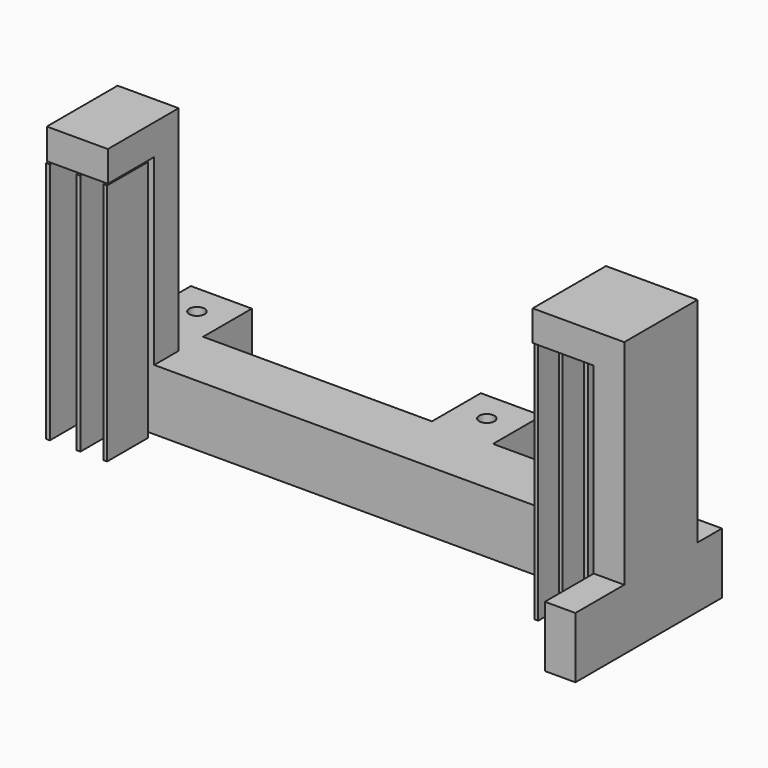
from build123d import *

# Parameters (mm, degrees)
F0_W     = 12.7
F0_H     = 12.7
F0_R     = 1.5875
F0_W_2   = 6.35
F0_H_2   = 25.4
F1_DEPTH = 12.7
F0_W_3   = 0.79375
F0_H_3   = 10.668
F2_DEPTH = 50.546
F3_W     = 12.7
F3_H     = 6.35
F4_DEPTH = 38.1
F5_W     = 12.7
F5_H     = 12.065
F5_H_2   = 6.35
F6_DEPTH = 6.35
F7_W     = 12.7
F7_H     = 12.7
F8_DEPTH = 6.35


with BuildPart() as f1:
    # F0 (on Top) → F1 (new body)
    with BuildSketch(Plane.XY):
        with Locations((-53.975, 12.7)):
            Rectangle(F0_W, F0_H)
        with Locations((-53.975, 12.7)):
            Circle(F0_R, mode=Mode.SUBTRACT)
        Polygon((53.975, -6.35), (60.325, -6.35), (60.325, 6.35), (12.7, 6.35), (0, 6.35), (-47.625, 6.35), (-60.325, 6.35), (-60.325, -6.35), align=None)
        with Locations((6.35, 12.7)):
            Rectangle(F0_W, F0_H)
        with Locations((6.3381763175, 12.7)):
            Circle(F0_R, mode=Mode.SUBTRACT)
        with Locations((57.15, -19.05)):
            Rectangle(F0_W_2, F0_H_2)
    extrude(amount=F1_DEPTH)

    # F3 (on face) → F4 (join)
    with BuildSketch(Plane.XY.offset(12.7)):
        with Locations((-53.975, -3.175)):
            Rectangle(F3_W, F3_H)
        with Locations((47.625, -3.175)):
            Rectangle(F3_W, F3_H)
        Polygon((53.975, 0), (53.975, -6.35), (53.975, -19.05), (60.325, -19.05), (60.325, 0), align=None)
    extrude(amount=F4_DEPTH)

    # F5 (on face) → F6 (join)
    with BuildSketch(Plane.XY.offset(50.8)):
        with Locations((-53.975, -12.3825)):
            Rectangle(F5_W, F5_H)
        with Locations((-53.975, -3.175)):
            Rectangle(F5_W, F5_H_2)
    extrude(amount=F6_DEPTH)

    # F7 (on face) → F8 (join)
    with BuildSketch(Plane.XY.offset(50.8)):
        Polygon((60.325, -19.05), (60.325, 0), (41.275, 0), (41.275, -6.35), (53.975, -6.35), (53.975, -19.05), align=None)
        with Locations((47.625, -12.7)):
            Rectangle(F7_W, F7_H)
    extrude(amount=F8_DEPTH)


with BuildPart() as f2:
    # F0 (on Top) → F2 (new body)
    with BuildSketch(Plane.XY):
        with Locations((-59.928125, -13.2715)):
            Rectangle(F0_W_3, F0_H_3)
    extrude(amount=F2_DEPTH)


with BuildPart() as f2b:
    # F0 (on Top) → F2, piece 2 (new body)
    with BuildSketch(Plane.XY):
        with Locations((-53.578125, -13.2715)):
            Rectangle(F0_W_3, F0_H_3)
    extrude(amount=F2_DEPTH)


with BuildPart() as f2c:
    # F0 (on Top) → F2, piece 3 (new body)
    with BuildSketch(Plane.XY):
        with Locations((-48.021875, -13.2715)):
            Rectangle(F0_W_3, F0_H_3)
    extrude(amount=F2_DEPTH)


with BuildPart() as f2d:
    # F0 (on Top) → F2, piece 4 (new body)
    with BuildSketch(Plane.XY):
        with Locations((41.671875, -13.2715)):
            Rectangle(F0_W_3, F0_H_3)
    extrude(amount=F2_DEPTH)


with BuildPart() as f2e:
    # F0 (on Top) → F2, piece 5 (new body)
    with BuildSketch(Plane.XY):
        with Locations((46.751875, -13.2715)):
            Rectangle(F0_W_3, F0_H_3)
    extrude(amount=F2_DEPTH)


with BuildPart() as f2f:
    # F0 (on Top) → F2, piece 6 (new body)
    with BuildSketch(Plane.XY):
        with Locations((51.990625, -13.2715)):
            Rectangle(F0_W_3, F0_H_3)
    extrude(amount=F2_DEPTH)


solid = Compound([f1.part, f2.part, f2b.part, f2c.part, f2d.part, f2e.part, f2f.part])
